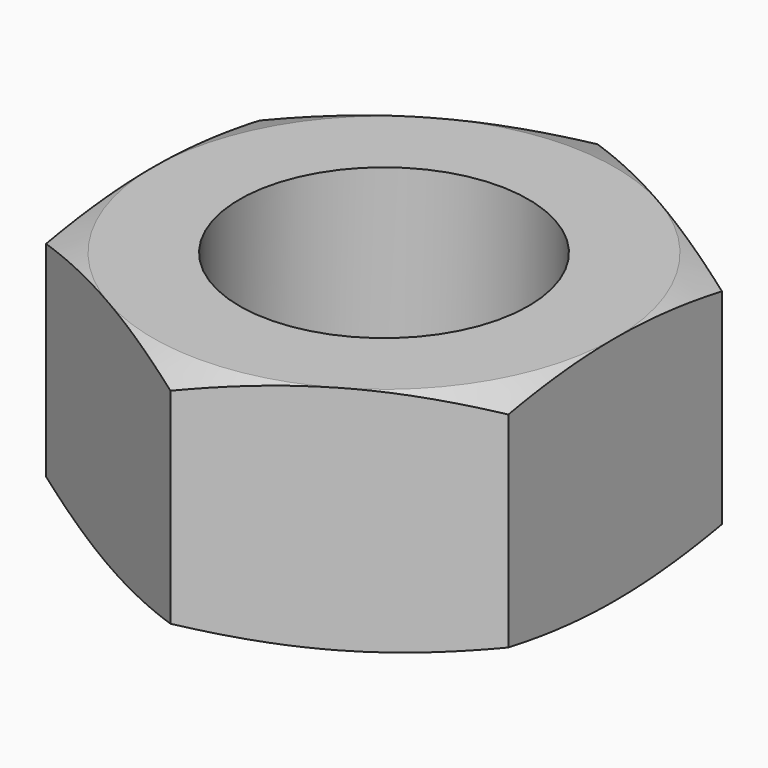
from build123d import *

# Parameters (mm, degrees)
F0_R     = 5
F1_DEPTH = 8


with BuildPart() as f1:
    # F0 (on Top) → F1 (new body)
    with BuildSketch(Plane.XY):
        Polygon((8, -4.618802), (8, 4.618802), (0, 9.237604), (-8, 4.618802), (-8, -4.618802), (0, -9.237604), align=None)
        Circle(F0_R, mode=Mode.SUBTRACT)
    extrude(amount=F1_DEPTH)

    # F2 (on Right) → F3 (revolve, intersect)
    with BuildSketch(Plane.YZ):
        Polygon((-8, 0), (0, 0), (0, 8), (-8, 8), (-9.237604, 7.549549), (-9.237604, 0.450451), align=None)
    revolve(axis=Axis((0, 0, 4.732898), (0, 0, 1)), mode=Mode.INTERSECT)


solid = f1.part
